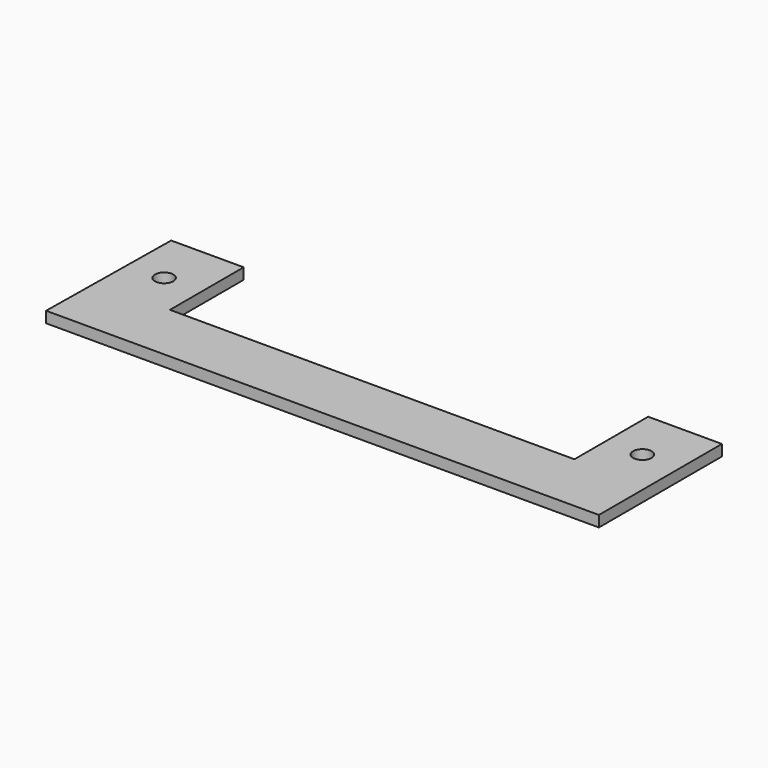
from build123d import *

# Parameters (mm, degrees)
F1_DEPTH = 3
F2_D     = 5
F2_DEPTH = 50
F2_TIP   = 1.5021515476


with BuildPart() as f1:
    # F0 (on Top) → F1 (new body)
    with BuildSketch(Plane.XY):
        Polygon((-74.3983983994, 41.7045462877), (-74.9598965049, 0), (74.9598965049, 0), (74.9598965049, 41.7045462877), (54.9598965049, 41.7045462877), (54.9598965049, 16.7045462877), (-54.7331786285, 16.7045462877), (-54.7331786285, 41.7045462877), align=None)
    extrude(amount=F1_DEPTH)

    # F2
    with Locations(Plane(origin=(0, 0, 0), x_dir=(1, 0, 0), z_dir=(0, 0, -1))):
        with Locations((-64.8529455066, -27.3729953915), (64.8529455066, -27.3729953915)):
            Hole(F2_D / 2, depth=F2_DEPTH)
            with Locations((0, 0, -(F2_DEPTH + F2_TIP / 2))):  # 118° drill point
                Cone(0, F2_D / 2, F2_TIP, mode=Mode.SUBTRACT)


solid = f1.part
